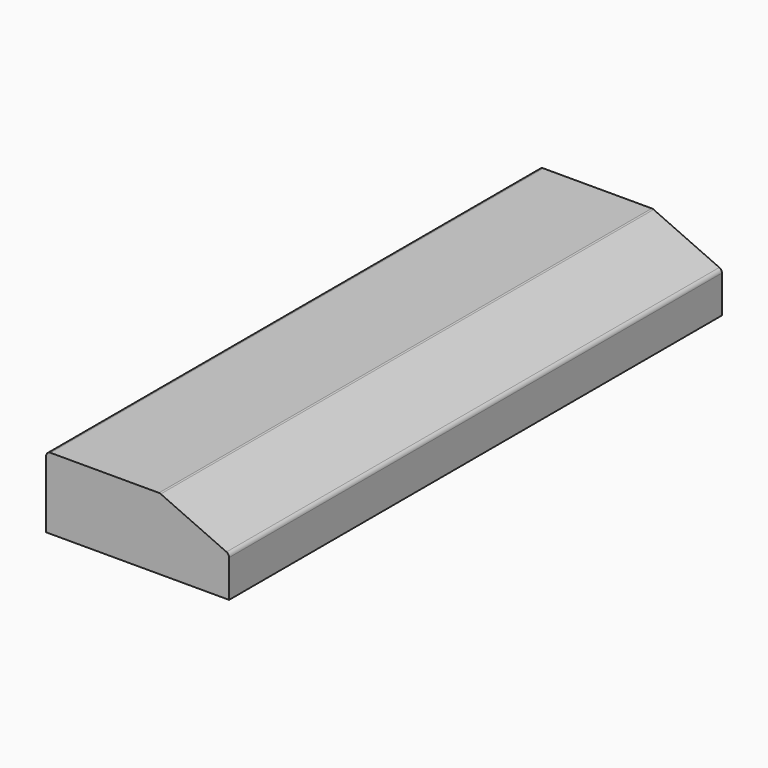
from build123d import *

# Parameters (mm, degrees)
F1_DEPTH = 438.15


with BuildPart() as f1:
    # F0 (on Front) → F1 (new body)
    with BuildSketch(Plane.XZ):
        with BuildLine():
            Line((0, 47.625), (0, 0))
            Line((0, 0), (130.175, 0))
            Line((130.175, 0), (130.175, 26.524889))
            ThreePointArc((130.175, 26.524889), (129.667282, 28.247164), (128.306508, 29.418617))
            Line((128.306508, 29.418617), (81.572777, 50.518728))
            ThreePointArc((81.572777, 50.518728), (80.93449, 50.728886), (80.266269, 50.8))
            Line((80.266269, 50.8), (3.175, 50.8))
            ThreePointArc((3.175, 50.8), (0.929936, 49.870064), (0, 47.625))
        make_face()
    extrude(amount=F1_DEPTH)


solid = f1.part
